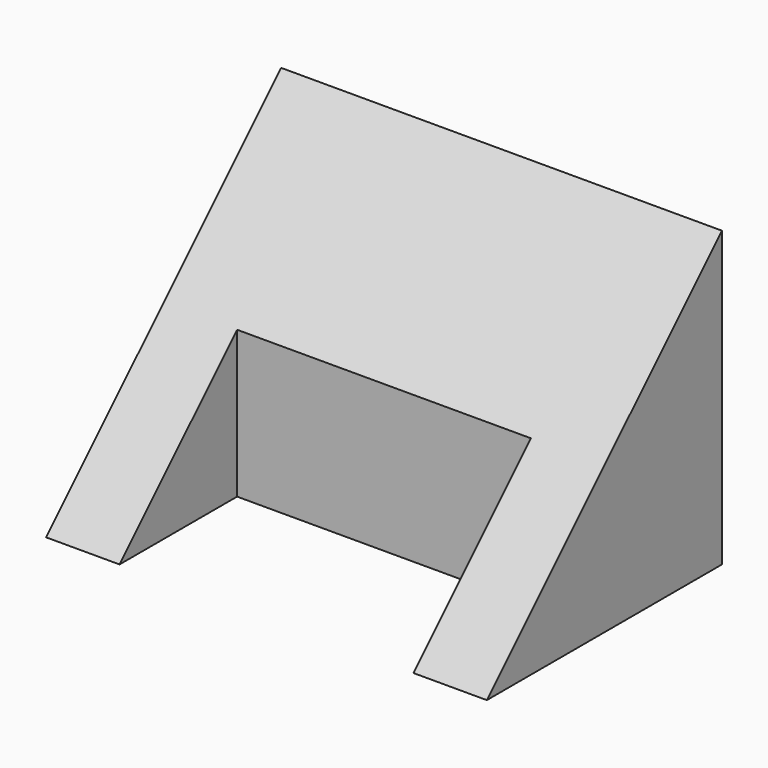
from build123d import *

# Parameters (mm, degrees)
F0_W     = 38.1
F0_H     = 25.4
F1_DEPTH = 25.4
F3_DEPTH = 38.1
F5_DEPTH = 25.4


with BuildPart() as f1:
    # F0 (on Front) → F1 (new body)
    with BuildSketch(Plane.XZ):
        with Locations((19.05, 12.7)):
            Rectangle(F0_W, F0_H)
    extrude(amount=-F1_DEPTH)

    # F2 (on face) → F3 (cut)
    with BuildSketch(Plane.YZ.offset(38.1)):
        Polygon((0, 0), (25.4, 25.4), (0, 25.4), align=None)
    extrude(amount=-F3_DEPTH, mode=Mode.SUBTRACT)

    # F4 (on face) → F5 (cut)
    with BuildSketch(Plane(origin=(0, 0, 0), x_dir=(1, 0, 0), z_dir=(0, 0, -1))):
        Polygon((31.75, 0), (19.05, 0), (6.35, 0), (6.35, -12.7), (31.75, -12.7), align=None)
    extrude(amount=-F5_DEPTH, mode=Mode.SUBTRACT)


solid = f1.part
